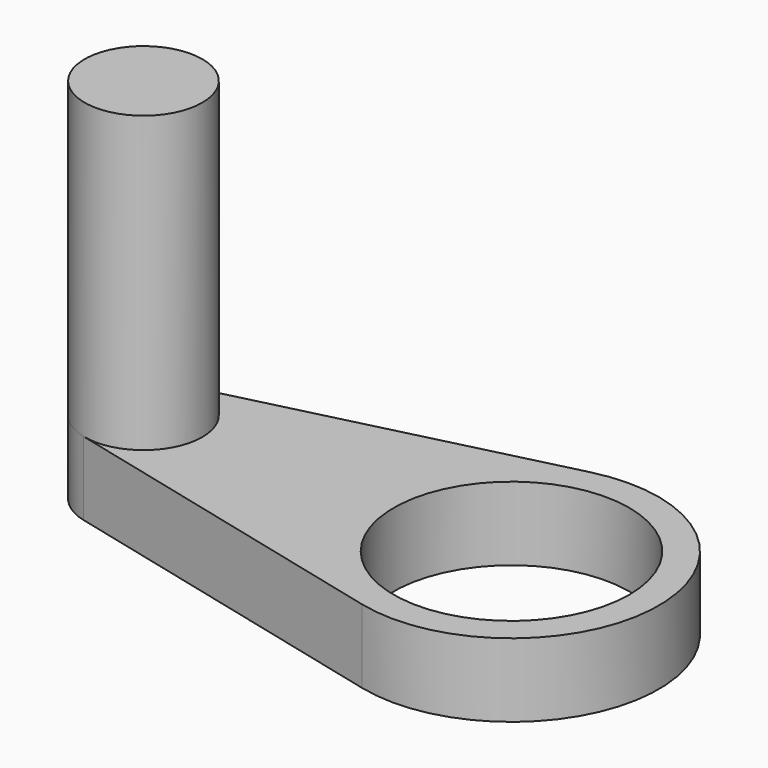
from build123d import *

# Parameters (mm, degrees)
SKETCH_R     = 8
PAD_DEPTH    = 5
SKETCH001_R  = 4
PAD001_DEPTH = 20


with BuildPart() as part:
    # Sketch → Pad (new body)
    with BuildSketch(Plane.XY):
        with BuildLine():
            ThreePointArc((-2.4, -9.7077288796), (10, 0), (-2.4, 9.7077288796))
            Line((-25.96, 3.8830915518), (-2.4, 9.7077288796))
            ThreePointArc((-25.96, 3.8830915518), (-29, 0), (-25.96, -3.8830915518))
            Line((-2.4, -9.7077288796), (-25.96, -3.8830915518))
        make_face()
        Circle(SKETCH_R, mode=Mode.SUBTRACT)
    extrude(amount=PAD_DEPTH)

    # Sketch001 (on Face7 of Pad) → Pad001 (join)
    with BuildSketch(Plane.XY.offset(5)):
        with Locations((-25, 0)):
            Circle(SKETCH001_R)
    extrude(amount=PAD001_DEPTH)


solid = part.part
